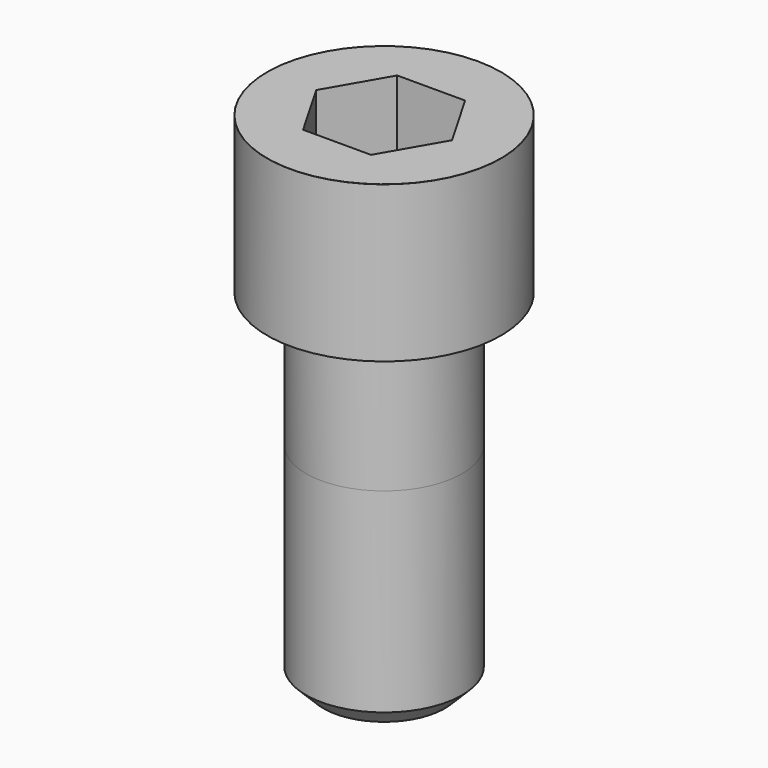
from build123d import *

# Parameters (mm, degrees)
POCKET_DEPTH = 27.15


with BuildPart() as part:
    # Sketch → Revolve (revolve)
    with BuildSketch(Plane.YZ):
        with BuildLine():
            Line((17.999, 0), (27, 0))
            Line((27, 0), (27, 35.97229))
            ThreePointArc((27, 35.97229), (26.991884, 35.991884), (26.97229, 36))
            Line((26.97229, 36), (0, 36))
            Line((0, -80), (0, 36))
            Line((14, -80), (0, -80))
            Line((18, -76), (14, -80))
            Line((18, -31), (18, -76))
            Line((17.999, 0), (18, -31))
        make_face()
    revolve(axis=Axis((0, 0, 0), (0, 0, 1)))

    # Sketch001 → Pocket (cut)
    with BuildSketch(Plane.XY.offset(36)):
        Polygon((15.67506, 0), (7.83753, 13.575), (-7.83753, 13.575), (-15.67506, 0), (-7.83753, -13.575), (7.83753, -13.575), align=None)
    extrude(amount=-POCKET_DEPTH, mode=Mode.SUBTRACT)


solid = part.part
